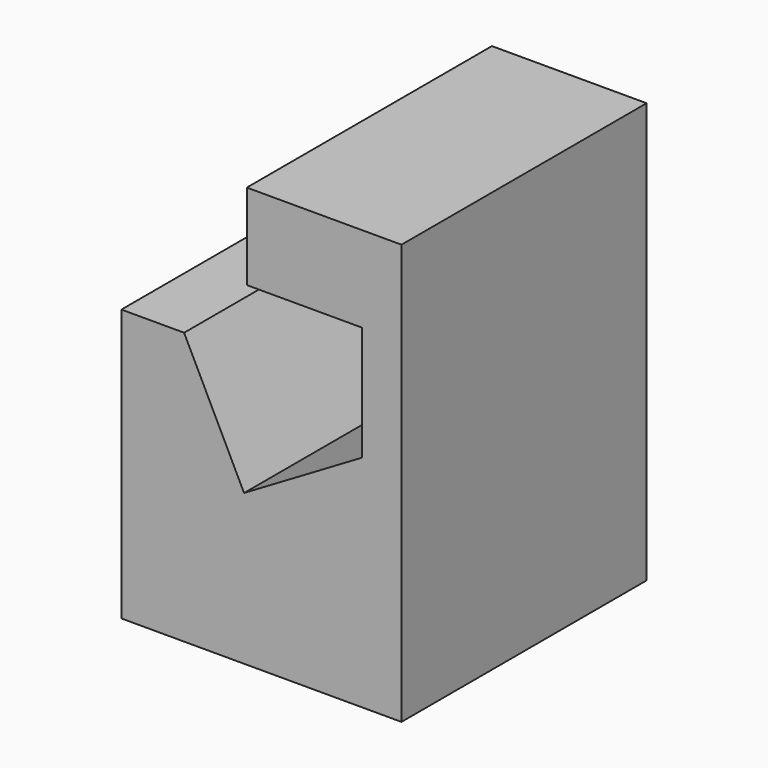
from build123d import *

# Parameters (mm, degrees)
F0_W     = 254
F0_H     = 381
F1_DEPTH = 277.876
F3_DEPTH = 496.824


with BuildPart() as f1:
    # F0 (on Front) → F1 (new body)
    with BuildSketch(Plane.XZ):
        with Locations((-11.084041, 90.176523)):
            Rectangle(F0_W, F0_H)
    extrude(amount=F1_DEPTH)

    # F2 (on face) → F3 (cut)
    with BuildSketch(Plane.XZ.offset(277.876)):
        Polygon((-24.348995, 280.676523), (-138.084041, 280.676523), (-138.084041, 146.291867), (-81.216518, 146.291867), (-26.84723, 36.026206), (80.266982, 99.097446), (80.266982, 202.82951), (-24.348995, 202.82951), align=None)
    extrude(amount=-F3_DEPTH, mode=Mode.SUBTRACT)


solid = f1.part
